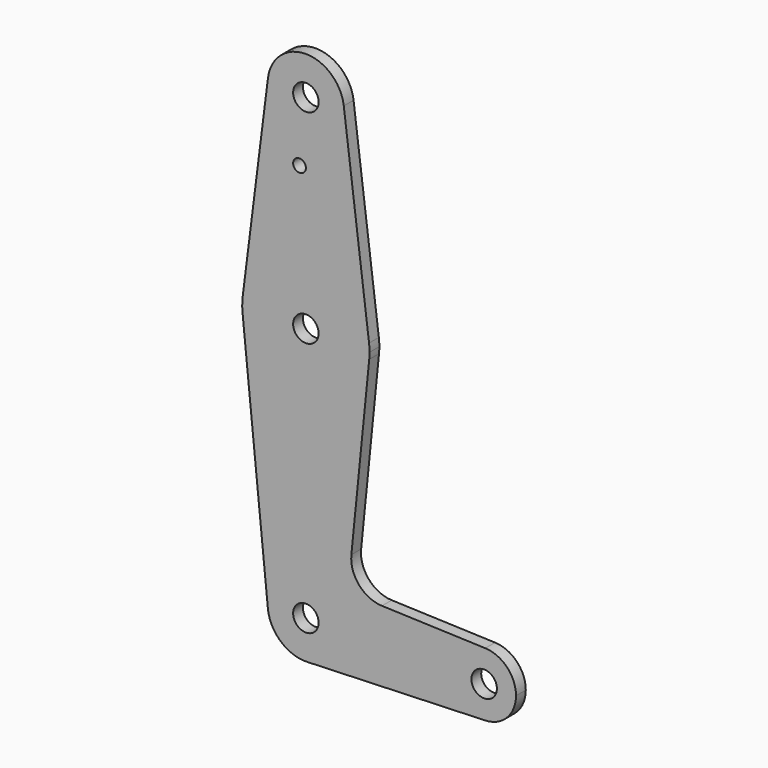
from build123d import *

# Parameters (mm, degrees)
F0_R     = 3.175
F0_R_2   = 1.5875
F1_DEPTH = 3.048


with BuildPart() as f1:
    # F0 (on Front) → F1 (new body)
    with BuildSketch(Plane.XZ):
        with Locations((-58.139303, -37.886422)):
            Circle(F0_R)
        with BuildLine():
            ThreePointArc((-67.616559, -38.838922), (-58.616151, -28.373366), (-48.614303, -37.886422))
            Line((-48.614303, -37.886422), (-21.626803, -37.886422))
            ThreePointArc((-21.626803, -37.886422), (-19.200826, -32.174415), (-13.405821, -29.953986))
            Line((-13.405821, -29.953986), (-39.171703, -29.033189))
            ThreePointArc((-39.171703, -29.033189), (-44.878104, -26.315063), (-46.798117, -20.293041))
            Line((-46.798117, -20.293041), (-42.343878, 24.026078))
            ThreePointArc((-42.343878, 24.026078), (-58.139303, 9.738578), (-73.934729, 24.026078))
            Line((-73.934729, 24.026078), (-67.616559, -38.838922))
        make_face()
        with BuildLine():
            ThreePointArc((-57.799125, -47.405346), (-51.284895, -44.50025), (-48.614303, -37.886422))
            ThreePointArc((-48.614303, -37.886422), (-58.616151, -28.373366), (-67.616559, -38.838922))
            ThreePointArc((-67.616559, -38.838922), (-64.401687, -45.063342), (-57.799125, -47.405346))
        make_face()
        with Locations((-58.139303, -37.886422)):
            Circle(F0_R, mode=Mode.SUBTRACT)
        with BuildLine():
            Line((-21.626803, -37.886422), (-48.614303, -37.886422))
            ThreePointArc((-48.614303, -37.886422), (-51.284895, -44.50025), (-57.799125, -47.405346))
            Line((-57.799125, -47.405346), (-13.405821, -45.818859))
            ThreePointArc((-13.405821, -45.818859), (-19.200826, -43.598429), (-21.626803, -37.886422))
        make_face()
        with BuildLine():
            ThreePointArc((-10.514303, -37.886422), (-13.689303, -34.711422), (-16.864303, -37.886422))
            ThreePointArc((-16.864303, -37.886422), (-13.689303, -41.061422), (-10.514303, -37.886422))
        make_face()
        with BuildLine():
            ThreePointArc((-13.405821, -29.953986), (-19.200826, -32.174415), (-21.626803, -37.886422))
            ThreePointArc((-21.626803, -37.886422), (-19.200826, -43.598429), (-13.405821, -45.818859))
            ThreePointArc((-13.405821, -45.818859), (-7.977297, -43.397945), (-5.751803, -37.886422))
            ThreePointArc((-5.751803, -37.886422), (-7.977297, -32.3749), (-13.405821, -29.953986))
        make_face()
        with BuildLine():
            ThreePointArc((-10.514303, -37.886422), (-13.689303, -41.061422), (-16.864303, -37.886422))
            ThreePointArc((-16.864303, -37.886422), (-13.689303, -34.711422), (-10.514303, -37.886422))
        make_face(mode=Mode.SUBTRACT)
        with BuildLine():
            ThreePointArc((-73.889792, 27.597953), (-74.013047, 25.813283), (-73.934729, 24.026078))
            ThreePointArc((-73.934729, 24.026078), (-58.139303, 9.738578), (-42.343878, 24.026078))
            ThreePointArc((-42.343878, 24.026078), (-42.28421, 24.818831), (-42.264303, 25.613578))
            ThreePointArc((-42.264303, 25.613578), (-42.295462, 26.607716), (-42.388815, 27.597953))
            ThreePointArc((-42.388815, 27.597953), (-58.139303, 41.488578), (-73.889792, 27.597953))
        make_face()
        with Locations((-58.139303, 25.613578)):
            Circle(F0_R, mode=Mode.SUBTRACT)
        with BuildLine():
            Line((-67.589596, 77.604203), (-73.889792, 27.597953))
            ThreePointArc((-73.889792, 27.597953), (-58.139303, 41.488578), (-42.388815, 27.597953))
            Line((-42.388815, 27.597953), (-48.68901, 77.604203))
            ThreePointArc((-48.68901, 77.604203), (-48.632999, 77.010061), (-48.614303, 76.413578))
            ThreePointArc((-48.614303, 76.413578), (-58.735787, 66.907273), (-67.589596, 77.604203))
        make_face()
        with Locations((-59.726803, 60.911532)):
            Circle(F0_R_2, mode=Mode.SUBTRACT)
        with BuildLine():
            ThreePointArc((-48.68901, 77.604203), (-58.139303, 85.938578), (-67.589596, 77.604203))
            ThreePointArc((-67.589596, 77.604203), (-58.735787, 66.907273), (-48.614303, 76.413578))
            ThreePointArc((-48.614303, 76.413578), (-48.632999, 77.010061), (-48.68901, 77.604203))
        make_face()
        with Locations((-58.139303, 76.413578)):
            Circle(F0_R, mode=Mode.SUBTRACT)
    extrude(amount=F1_DEPTH)


solid = f1.part
